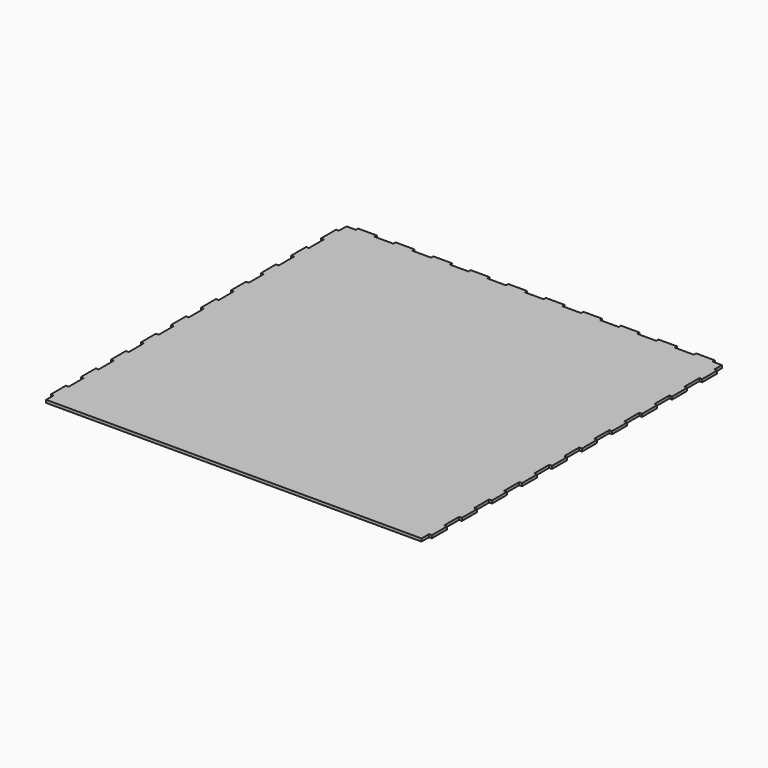
from build123d import *

# Parameters (mm, degrees)
F0_W     = 400
F0_H     = 400
F1_DEPTH = 3
F2_W     = 20
F2_H     = 3
F2_W_2   = 3
F2_H_2   = 20
F3_DEPTH = 3
F4_W     = 380
F4_H     = 3
F5_DEPTH = 25


with BuildPart() as f1:
    # F0 (on Top) → F1 (new body)
    with BuildSketch(Plane.XY):
        Rectangle(F0_W, F0_H)
    extrude(amount=F1_DEPTH)

    # F2 (on face) → F3 (join, through all)
    with BuildSketch(Plane.XY.offset(3)):
        with Locations((-180, -201.5)):
            Rectangle(F2_W, F2_H)
        with Locations((-140, -201.5)):
            Rectangle(F2_W, F2_H)
        with Locations((-100, -201.5)):
            Rectangle(F2_W, F2_H)
        with Locations((-60, -201.5)):
            Rectangle(F2_W, F2_H)
        with Locations((-20, -201.5)):
            Rectangle(F2_W, F2_H)
        with Locations((20, -201.5)):
            Rectangle(F2_W, F2_H)
        with Locations((60, -201.5)):
            Rectangle(F2_W, F2_H)
        with Locations((100, -201.5)):
            Rectangle(F2_W, F2_H)
        with Locations((140, -201.5)):
            Rectangle(F2_W, F2_H)
        with Locations((180, -201.5)):
            Rectangle(F2_W, F2_H)
        with Locations((201.5, 100)):
            Rectangle(F2_W_2, F2_H_2)
        with Locations((201.5, 180)):
            Rectangle(F2_W_2, F2_H_2)
        with Locations((201.5, 20)):
            Rectangle(F2_W_2, F2_H_2)
        with Locations((201.5, 140)):
            Rectangle(F2_W_2, F2_H_2)
        with Locations((201.5, -20)):
            Rectangle(F2_W_2, F2_H_2)
        with Locations((201.5, 60)):
            Rectangle(F2_W_2, F2_H_2)
        with Locations((201.5, -60)):
            Rectangle(F2_W_2, F2_H_2)
        with Locations((201.5, -180)):
            Rectangle(F2_W_2, F2_H_2)
        with Locations((201.5, -140)):
            Rectangle(F2_W_2, F2_H_2)
        with Locations((201.5, -100)):
            Rectangle(F2_W_2, F2_H_2)
        with Locations((-100, 201.5)):
            Rectangle(F2_W, F2_H)
        with Locations((-180, 201.5)):
            Rectangle(F2_W, F2_H)
        with Locations((-20, 201.5)):
            Rectangle(F2_W, F2_H)
        with Locations((-140, 201.5)):
            Rectangle(F2_W, F2_H)
        with Locations((20, 201.5)):
            Rectangle(F2_W, F2_H)
        with Locations((-60, 201.5)):
            Rectangle(F2_W, F2_H)
        with Locations((60, 201.5)):
            Rectangle(F2_W, F2_H)
        with Locations((180, 201.5)):
            Rectangle(F2_W, F2_H)
        with Locations((140, 201.5)):
            Rectangle(F2_W, F2_H)
        with Locations((100, 201.5)):
            Rectangle(F2_W, F2_H)
        with Locations((-201.5, -100)):
            Rectangle(F2_W_2, F2_H_2)
        with Locations((-201.5, -180)):
            Rectangle(F2_W_2, F2_H_2)
        with Locations((-201.5, -20)):
            Rectangle(F2_W_2, F2_H_2)
        with Locations((-201.5, -140)):
            Rectangle(F2_W_2, F2_H_2)
        with Locations((-201.5, 20)):
            Rectangle(F2_W_2, F2_H_2)
        with Locations((-201.5, -60)):
            Rectangle(F2_W_2, F2_H_2)
        with Locations((-201.5, 60)):
            Rectangle(F2_W_2, F2_H_2)
        with Locations((-201.5, 180)):
            Rectangle(F2_W_2, F2_H_2)
        with Locations((-201.5, 140)):
            Rectangle(F2_W_2, F2_H_2)
        with Locations((-201.5, 100)):
            Rectangle(F2_W_2, F2_H_2)
    extrude(amount=-F3_DEPTH)

    # F4 (on face) → F5 (cut)
    with BuildSketch(Plane.XY.offset(3)):
        with Locations((0, -201.5)):
            Rectangle(F4_W, F4_H)
    extrude(amount=-F5_DEPTH, mode=Mode.SUBTRACT)


solid = f1.part
